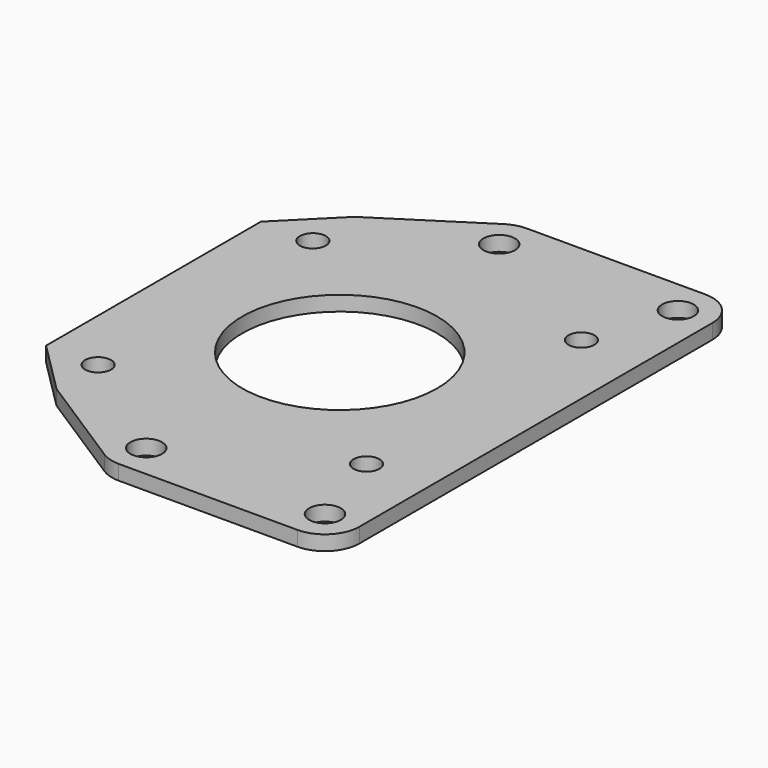
from build123d import *

# Parameters (mm, degrees)
F0_R     = 1.5
F0_R_2   = 1.8288
F0_R_3   = 11.253
F1_DEPTH = 1.70942
F2_R     = 3.96875


with BuildPart() as f1:
    # F0 (on Top) → F1 (new body)
    with BuildSketch(Plane.XY):
        with BuildLine():
            Line((-21.502992, 15.499982), (-21.502992, -15.499982))
            Line((-21.502992, -15.499982), (-15.499982, -21.502992))
            Line((-15.499982, -21.502992), (-4.105352, -28.812279))
            ThreePointArc((-4.105352, -28.812279), (-3.079023, -29.280202), (-1.962506, -29.440492))
            Line((-1.962506, -29.440492), (22.643744, -29.440492))
            Line((22.643744, -29.440492), (22.643744, 29.440492))
            Line((22.643744, 29.440492), (-1.962506, 29.440492))
            ThreePointArc((-1.962506, 29.440492), (-3.079023, 29.280202), (-4.105352, 28.812279))
            Line((-4.105352, 28.812279), (-15.499982, 21.502992))
            Line((-15.499982, 21.502992), (-21.502992, 15.499982))
        make_face()
        with Locations((-15.499994, -15.499994)):
            Circle(F0_R, mode=Mode.SUBTRACT)
        with Locations((-1.962506, -25.471742)):
            Circle(F0_R_2, mode=Mode.SUBTRACT)
        with Locations((18.674994, -25.471742)):
            Circle(F0_R_2, mode=Mode.SUBTRACT)
        with Locations((15.499994, -15.499994)):
            Circle(F0_R, mode=Mode.SUBTRACT)
        Circle(F0_R_3, mode=Mode.SUBTRACT)
        with Locations((-15.499994, 15.499994)):
            Circle(F0_R, mode=Mode.SUBTRACT)
        with Locations((-1.962506, 25.471742)):
            Circle(F0_R_2, mode=Mode.SUBTRACT)
        with Locations((15.499994, 15.499994)):
            Circle(F0_R, mode=Mode.SUBTRACT)
        with Locations((18.674994, 25.471742)):
            Circle(F0_R_2, mode=Mode.SUBTRACT)
    extrude(amount=F1_DEPTH)

    # F2
    f2_edges = [f1.edges().sort_by_distance(p)[0] for p in [
        (22.643744, -29.440492, 0.85471),
        (22.643744, 29.440492, 0.85471),
    ]]
    fillet(f2_edges, radius=F2_R)


solid = f1.part
